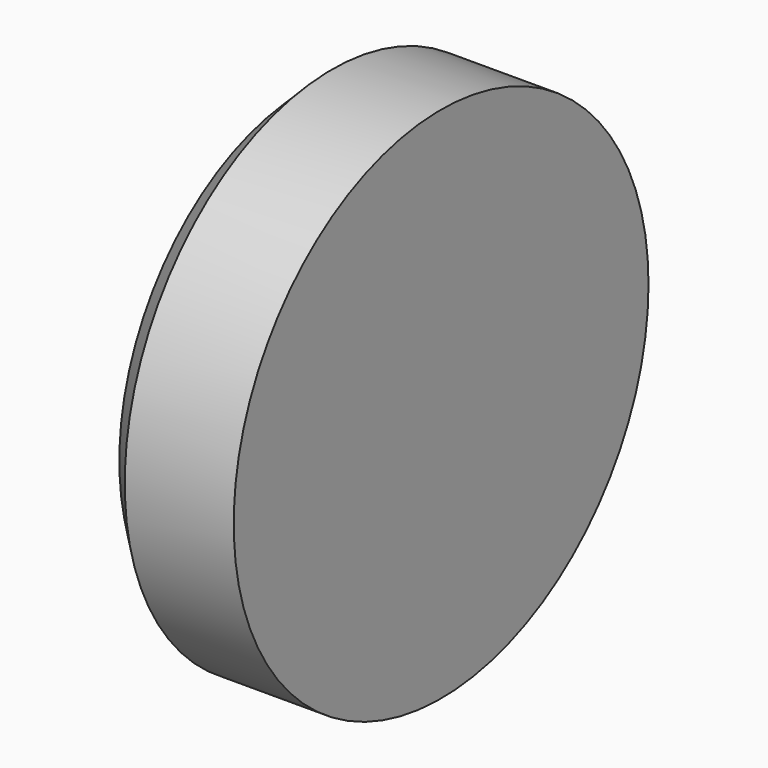
from build123d import *

# Parameters (mm, degrees)
F0_R     = 48.345405
F1_DEPTH = 25.4
F2_SIZE  = 5.08


with BuildPart() as f1:
    # F0 (on Right) → F1 (new body)
    with BuildSketch(Plane.YZ):
        Circle(F0_R)
    extrude(amount=F1_DEPTH)

    # F2
    f2_edges = [f1.edges().sort_by_distance(p)[0] for p in [
        (0, -48.345405, 0),
    ]]
    chamfer(f2_edges, length=F2_SIZE)


solid = f1.part
